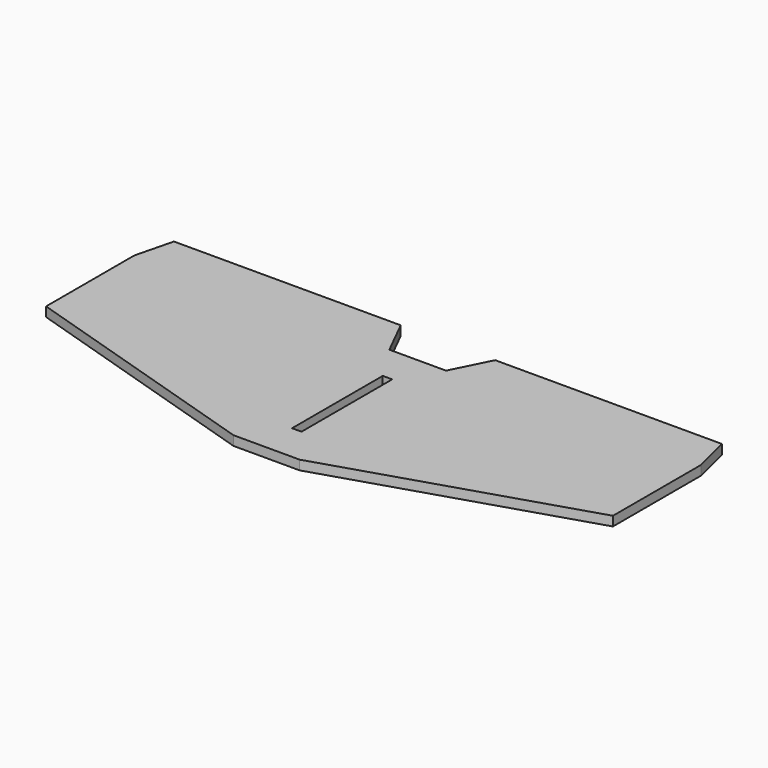
from build123d import *

# Parameters (mm, degrees)
F1_DEPTH = 6.35


with BuildPart() as f1:
    # F0 (on Top) → F1 (new body)
    with BuildSketch(Plane.XY):
        Polygon((-190.5, 63.5), (-190.5, -10.592123), (-22.25318, -63.5), (0, -63.5), (22.25318, -63.5), (190.5, -10.592123), (190.5, 63.5), (19.05, 63.5), (0, 63.5), (-19.05, 63.5), align=None)
        Polygon((3.175, -38.1), (0, -38.1), (-3.175, -38.1), (-3.175, 38.1), (0, 38.1), (3.175, 38.1), align=None, mode=Mode.SUBTRACT)
        Polygon((-184.15, 88.9), (-190.5, 63.5), (-19.05, 63.5), (-31.75, 88.9), align=None)
        Polygon((31.75, 88.9), (19.05, 63.5), (190.5, 63.5), (184.15, 88.9), align=None)
    extrude(amount=F1_DEPTH)


solid = f1.part
